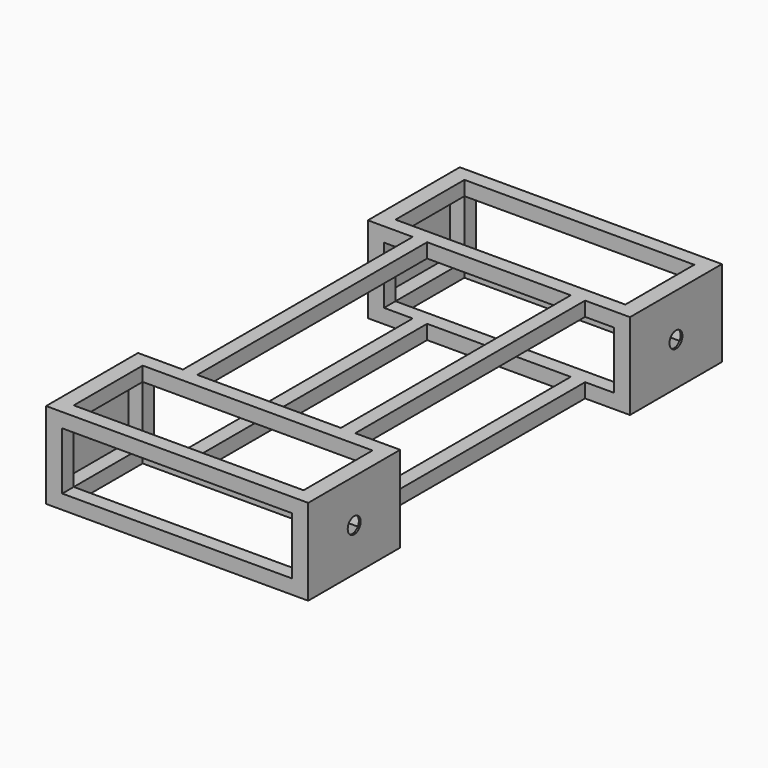
from build123d import *

# Parameters (mm, degrees)
F0_W      = 406.4
F0_H      = 152.4
F0_W_2    = 25.4
F0_H_2    = 508
F1_DEPTH  = 25.4
F2_W      = 25.4
F2_H      = 25.4
F3_DEPTH  = 101.6
F4_W      = 25.4
F4_H      = 508
F5_DEPTH  = 25.4
F6_W      = 203.2
F6_H      = 152.4
F7_DEPTH  = 3.175
F8_W      = 203.2
F8_H      = 152.4
F9_DEPTH  = 3.175
F10_R     = 14.2875
F11_DEPTH = 463.551


with BuildPart() as f1:
    # F0 (on Top) → F1 (new body)
    with BuildSketch(Plane.XY):
        Polygon((228.6, 457.2), (-228.6, 457.2), (-228.6, 254), (-203.2, 254), (-152.4, 254), (-127, 254), (127, 254), (152.4, 254), (203.2, 254), (228.6, 254), align=None)
        with Locations((0, 355.6)):
            Rectangle(F0_W, F0_H, mode=Mode.SUBTRACT)
        with Locations((-139.7, 0)):
            Rectangle(F0_W_2, F0_H_2)
        with Locations((139.7, 0)):
            Rectangle(F0_W_2, F0_H_2)
        Polygon((-127, -254), (-152.4, -254), (-203.2, -254), (-203.2, -279.4), (203.2, -279.4), (203.2, -254), (152.4, -254), (127, -254), align=None)
        Polygon((-203.2, -279.4), (-203.2, -254), (-228.6, -254), (-228.6, -457.2), (228.6, -457.2), (228.6, -254), (203.2, -254), (203.2, -279.4), (203.2, -431.8), (-203.2, -431.8), align=None)
        Polygon((-127, -254), (-152.4, -254), (-203.2, -254), (-203.2, -279.4), (203.2, -279.4), (203.2, -254), (152.4, -254), (127, -254), align=None)
        Polygon((228.6, 457.2), (-228.6, 457.2), (-228.6, 254), (-203.2, 254), (-152.4, 254), (-127, 254), (127, 254), (152.4, 254), (203.2, 254), (228.6, 254), align=None)
        with Locations((0, 355.6)):
            Rectangle(F0_W, F0_H, mode=Mode.SUBTRACT)
    extrude(amount=F1_DEPTH)

    # F2 (on face) → F3 (join)
    with BuildSketch(Plane.XY.offset(25.4)):
        with Locations((-215.9, -444.5)):
            Rectangle(F2_W, F2_H)
        with Locations((-215.9, 444.5)):
            Rectangle(F2_W, F2_H)
        with Locations((215.9, 444.5)):
            Rectangle(F2_W, F2_H)
        with Locations((215.9, -444.5)):
            Rectangle(F2_W, F2_H)
        with Locations((-215.9, -266.7)):
            Rectangle(F2_W, F2_H)
        with Locations((-215.9, 266.7)):
            Rectangle(F2_W, F2_H)
        with Locations((215.9, -266.7)):
            Rectangle(F2_W, F2_H)
        with Locations((215.9, 266.7)):
            Rectangle(F2_W, F2_H)
    extrude(amount=F3_DEPTH)

    # F4 (on face) → F5 (join)
    with BuildSketch(Plane.XY.offset(127)):
        Polygon((228.6, 431.8), (228.6, 457.2), (-228.6, 457.2), (-228.6, 431.8), (-203.2, 431.8), (203.2, 431.8), align=None)
        Polygon((228.6, 254), (228.6, 431.8), (203.2, 431.8), (203.2, 279.4), (203.2, 254), align=None)
        Polygon((-203.2, 431.8), (-228.6, 431.8), (-228.6, 254), (-203.2, 254), (-203.2, 279.4), align=None)
        Polygon((203.2, 254), (203.2, 279.4), (-203.2, 279.4), (-203.2, 254), (-152.4, 254), (-127, 254), (127, 254), (152.4, 254), align=None)
        with Locations((139.7, 0)):
            Rectangle(F4_W, F4_H)
        with Locations((-139.7, 0)):
            Rectangle(F4_W, F4_H)
        Polygon((203.2, -254), (152.4, -254), (127, -254), (-127, -254), (-152.4, -254), (-203.2, -254), (-203.2, -279.4), (203.2, -279.4), align=None)
        Polygon((228.6, -254), (203.2, -254), (203.2, -279.4), (203.2, -431.8), (228.6, -431.8), align=None)
        Polygon((-203.2, -279.4), (-203.2, -254), (-228.6, -254), (-228.6, -431.8), (-203.2, -431.8), align=None)
        Polygon((228.6, -457.2), (228.6, -431.8), (203.2, -431.8), (-203.2, -431.8), (-228.6, -431.8), (-228.6, -457.2), align=None)
    extrude(amount=F5_DEPTH)

    # F6 (on face) → F7 (join)
    with BuildSketch(Plane.YZ.offset(228.6)):
        with Locations((-355.6, 76.2)):
            Rectangle(F6_W, F6_H)
        with Locations((355.6, 76.2)):
            Rectangle(F6_W, F6_H)
    extrude(amount=F7_DEPTH)

    # F8 (on face) → F9 (join)
    with BuildSketch(Plane(origin=(-228.6, 0, 0), x_dir=(0, -1, 0), z_dir=(-1, 0, 0))):
        with Locations((-355.6, 76.2)):
            Rectangle(F8_W, F8_H)
        with Locations((355.6, 76.2)):
            Rectangle(F8_W, F8_H)
    extrude(amount=F9_DEPTH)

    # F10 (on face) → F11 (cut, through all)
    with BuildSketch(Plane.YZ.offset(231.775)):
        with Locations((355.6, 76.2)):
            Circle(F10_R)
        with Locations((-355.6, 76.2)):
            Circle(F10_R)
    extrude(amount=-F11_DEPTH, mode=Mode.SUBTRACT)


solid = f1.part
